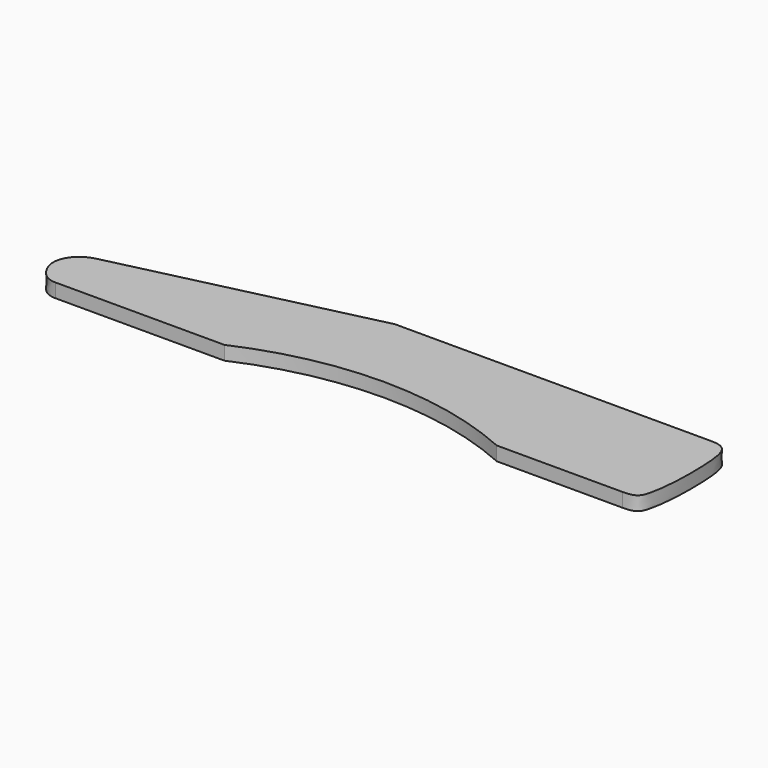
from build123d import *

# Parameters (mm, degrees)
F1_DEPTH = 15.875


with BuildPart() as f1:
    # F0 (on Top) → F1 (new body)
    with BuildSketch(Plane.XY):
        with BuildLine():
            ThreePointArc((-481.1693131924, -126.0784417391), (-325.7457315922, -92.9354673726), (-170.322149992, -126.0784417391))
            Line((-170.322149992, -126.0784417391), (-26.5201553702, -126.0784417391))
            add(Edge.make_bspline(
                [(-26.5264435702, 0), (-22.8012421009, 0), (-15.0441017893, -0.5887992114), (-4.523946909, -8.9224252488), (-1.2848955026, -43.9818290546), (-2.1464601557, -87.8940737216), (-5.5661619574, -108.40773937), (-8.9017204849, -121.9981720552), (-16.2298362702, -126.0784417391), (-26.5201553702, -126.0784417391)],
                knots=[0, 0, 0, 0, 0.1056347615, 0.2117991211, 0.3978072021, 0.6134774938, 0.757740991, 0.8658398185, 1, 1, 1, 1], degree=3))
            Line((-26.5264435702, 0), (-387.4219655997, 0))
            Line((-387.4219655997, 0), (-673.8674044609, -67.4248912098))
            add(Edge.make_bspline(
                [(-673.8674044609, -126.0784417391), (-679.4637585278, -126.0784417391), (-689.3936109441, -122.8120563291), (-702.6431348794, -101.4660306081), (-697.3032288028, -82.4590973372), (-686.6043829366, -71.9639539657), (-678.059783005, -68.411713232), (-673.8674044609, -67.4248912098)],
                knots=[0, 0, 0, 0, 0.1911647208, 0.4255862046, 0.63563501, 0.8219403923, 1, 1, 1, 1], degree=3))
            Line((-673.8674044609, -126.0784417391), (-481.1693131924, -126.0784417391))
        make_face()
    extrude(amount=F1_DEPTH)


solid = f1.part
